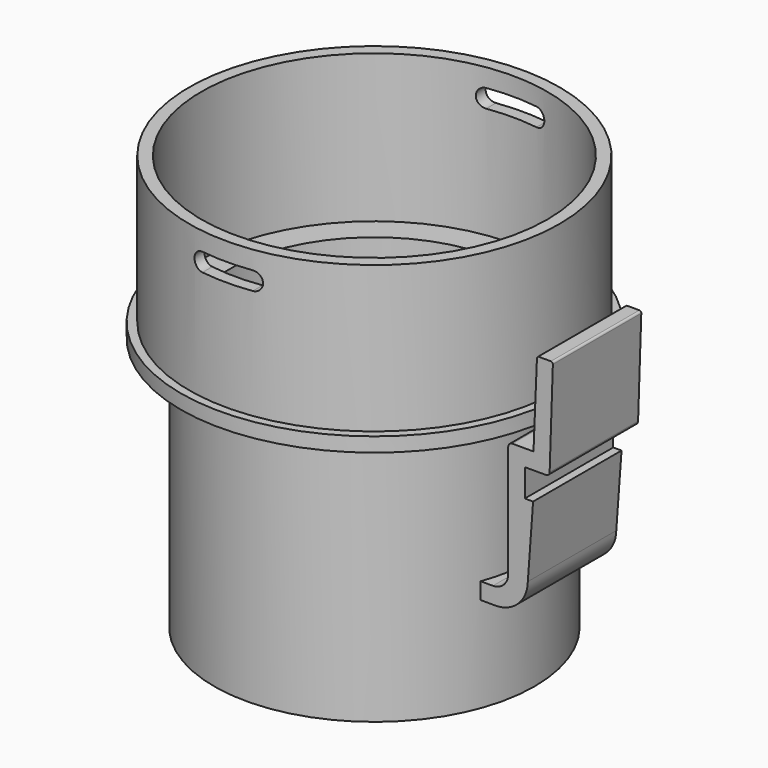
from build123d import *

# Parameters (mm, degrees)
SKETCH_R             = 29
PAD_DEPTH            = 46
SKETCH001_R          = 35
PAD001_DEPTH         = 2.6
SKETCH002_R          = 33.5
PAD002_DEPTH         = 26.5
SKETCH003_R          = 26.4
POCKET_DEPTH         = 75.101
SKETCH004_R          = 31.3
POCKET001_DEPTH      = 26.75
POCKET002_DEPTH      = 35.001
POCKET002_DEPTH_BACK = -35.001
PAD003_DEPTH         = 10
PAD003_DEPTH_BACK    = 10


with BuildPart() as part:
    # Sketch → Pad (new body)
    with BuildSketch(Plane.XY):
        Circle(SKETCH_R)
    extrude(amount=PAD_DEPTH)

    # Sketch001 (on Face3 of Pad) → Pad001 (join)
    with BuildSketch(Plane.XY.offset(46)):
        Circle(SKETCH001_R)
    extrude(amount=PAD001_DEPTH)

    # Sketch002 (on Face3 of Pad001) → Pad002 (join)
    with BuildSketch(Plane.XY.offset(48.6)):
        Circle(SKETCH002_R)
    extrude(amount=PAD002_DEPTH)

    # Sketch003 (on Face6 of Pad002) → Pocket (cut, through all)
    with BuildSketch(Plane(origin=(0, 0, 0), x_dir=(1, 0, 0), z_dir=(0, 0, -1))):
        Circle(SKETCH003_R)
    extrude(amount=-POCKET_DEPTH, mode=Mode.SUBTRACT)

    # Sketch004 (on Face7 of Pocket) → Pocket001 (cut)
    with BuildSketch(Plane.XY.offset(75.1)):
        Circle(SKETCH004_R)
    extrude(amount=-POCKET001_DEPTH, mode=Mode.SUBTRACT)

    # Sketch005 → Pocket002 (cut, two sides)
    with BuildSketch(Plane.XZ) as pocket002_sk:
        with BuildLine():
            ThreePointArc((-4.55, 71.8), (-6.2, 70.15), (-4.55, 68.5))
            Line((-4.55, 68.5), (4.55, 68.5))
            ThreePointArc((4.55, 68.5), (6.2, 70.15), (4.55, 71.8))
            Line((4.55, 71.8), (-4.55, 71.8))
        make_face()
    extrude(amount=-POCKET002_DEPTH, mode=Mode.SUBTRACT)
    extrude(pocket002_sk.sketch, amount=-POCKET002_DEPTH_BACK, mode=Mode.SUBTRACT)

    # Sketch006 → Pad003 (join, two sides)
    with BuildSketch(Plane.XZ) as pad003_sk:
        with BuildLine():
            Line((26.712868, 17.22326), (29.953513, 17.22326))
            ThreePointArc((29.953513, 17.22326), (34.027862, 18.893168), (35.758251, 22.9422))
            Line((35.758251, 22.9422), (36.710471, 36))
            Line((35.210471, 36), (36.710471, 36))
            Line((35.210471, 41), (35.210471, 36))
            Line((39.035531, 41), (35.210471, 41))
            ThreePointArc((39.035531, 41), (39.500898, 41.188211), (39.704589, 41.647014))
            Line((40.286886, 59.024747), (39.704589, 41.647014))
            ThreePointArc((40.286886, 59.024747), (40.187131, 59.283799), (39.931564, 59.392174))
            Line((37.766381, 59.392174), (39.931564, 59.392174))
            ThreePointArc((37.766381, 59.392174), (37.518605, 59.292543), (37.408773, 59.049117))
            Line((36.783433, 44), (37.408773, 59.049117))
            Line((32.969388, 44), (36.783433, 44))
            ThreePointArc((32.969388, 44), (32.432134, 43.777462), (32.209597, 43.240208))
            Line((32.209597, 43.240208), (32.209597, 22.982091))
            ThreePointArc((29.450765, 20.22326), (31.401553, 21.031303), (32.209597, 22.982091))
            Line((29.450765, 20.22326), (26.712868, 20.22326))
            Line((26.712868, 20.22326), (26.712868, 17.22326))
        make_face()
    extrude(amount=PAD003_DEPTH)
    extrude(pad003_sk.sketch, amount=-PAD003_DEPTH_BACK)


solid = part.part
